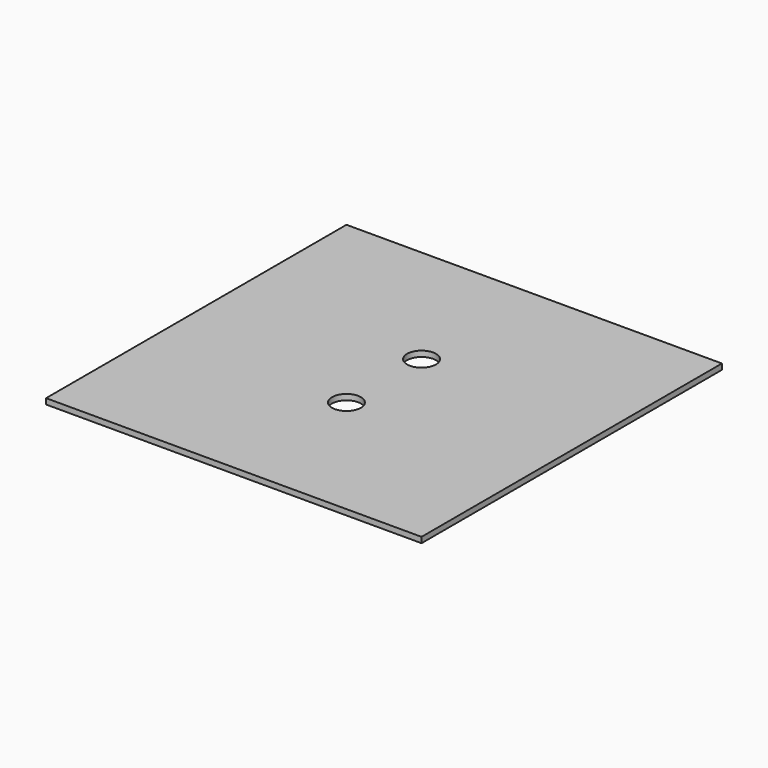
from build123d import *

# Parameters (mm, degrees)
SKETCH_W              = 399.99
SKETCH_H              = 399.99
PAD_DEPTH             = 6
SKETCH001_R           = 15.39
POCKET_DEPTH          = 1137.407205
POLARPATTERN001_COUNT = 2


with BuildPart() as part:
    # Sketch → Pad (new body)
    with BuildSketch(Plane.XY):
        Rectangle(SKETCH_W, SKETCH_H)
    extrude(amount=PAD_DEPTH)

    # Sketch001 (on Face6 of Pad) → Pocket (cut, through all)
    with BuildSketch(Plane.XY.offset(6)):
        with Locations((0, 50)):
            Circle(SKETCH001_R)
    pocket = extrude(amount=-POCKET_DEPTH, mode=Mode.SUBTRACT)

    # PolarPattern001: Pocket ×2 about axis
    polarpattern001_axis = Axis((0, 0, 6), (0, 0, 1))
    for i in range(1, POLARPATTERN001_COUNT):
        add(pocket.rotate(polarpattern001_axis, i * 360 / POLARPATTERN001_COUNT), mode=Mode.SUBTRACT)


solid = part.part
